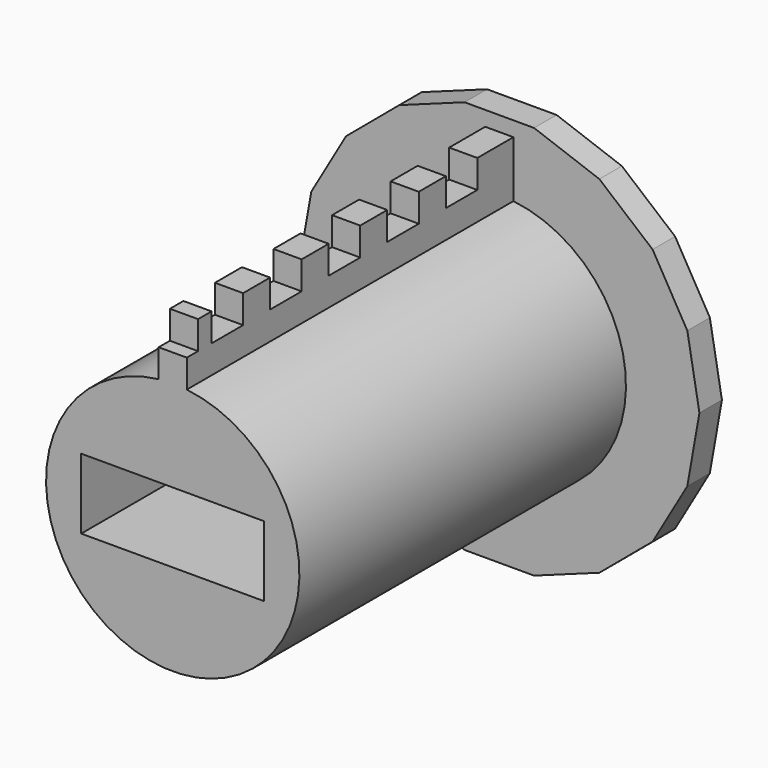
from build123d import *

# Parameters (mm, degrees)
F0_W     = 14
F0_H     = 5
F1_DEPTH = 2
F2_W     = 13
F2_H     = 5
F3_DEPTH = 31
F4_W     = 2
F4_H     = 1.2
F5_DEPTH = 2


with BuildPart() as f1:
    # F0 (on Front) → F1 (new body)
    with BuildSketch(Plane.XZ):
        Polygon((2.468578, 14), (-2.468578, 14), (-7.107986, 12.311393), (-10.890067, 9.137851), (-13.358645, 4.862149), (-14.215973, 0), (-13.358645, -4.862149), (-10.890067, -9.137851), (-7.107986, -12.311393), (-2.468578, -14), (2.468578, -14), (7.107986, -12.311393), (10.890067, -9.137851), (13.358645, -4.862149), (14.215973, 0), (13.358645, 4.862149), (10.890067, 9.137851), (7.107986, 12.311393), align=None)
        with BuildLine():
            ThreePointArc((1, 8.944272), (6.708204, 6), (9, 0))
            ThreePointArc((9, 0), (-6, -6.708204), (-1, 8.944272))
            Line((-1, 8.944272), (-1, 10.944272))
            Line((-1, 10.944272), (1, 10.944272))
            Line((1, 10.944272), (1, 8.944272))
        make_face(mode=Mode.SUBTRACT)
        with BuildLine():
            ThreePointArc((-1, 8.944272), (0, 9), (1, 8.944272))
            Line((1, 8.944272), (1, 10.944272))
            Line((1, 10.944272), (-1, 10.944272))
            Line((-1, 10.944272), (-1, 8.944272))
        make_face()
        with BuildLine():
            ThreePointArc((-1, 8.944272), (-6, -6.708204), (9, 0))
            ThreePointArc((9, 0), (6.708204, 6), (1, 8.944272))
            ThreePointArc((1, 8.944272), (0, 9), (-1, 8.944272))
        make_face()
        Rectangle(F0_W, F0_H, mode=Mode.SUBTRACT)
        Rectangle(F0_W, F0_H)
    extrude(amount=F1_DEPTH)

    # F2 (on Front) → F3 (join)
    with BuildSketch(Plane.XZ):
        with BuildLine():
            Line((-1, 10.944272), (-1, 8.944272))
            ThreePointArc((-1, 8.944272), (0, -9), (1, 8.944272))
            Line((1, 8.944272), (1, 10.944272))
            Line((1, 10.944272), (-1, 10.944272))
        make_face()
        Rectangle(F2_W, F2_H, mode=Mode.SUBTRACT)
    extrude(amount=F3_DEPTH)

    # F4 (on face) → F5 (join)
    with BuildSketch(Plane.XY.offset(10.944272)):
        Polygon((1, -4), (1, -2), (-1, -2), (-1, -4), (-1, -5.2), (1, -5.2), align=None)
        Polygon((1, -9.2), (1, -8), (-1, -8), (-1, -9.2), (-1, -10.4), (1, -10.4), align=None)
        with Locations((0, -13.8)):
            Rectangle(F4_W, F4_H)
        with Locations((0, -15)):
            Rectangle(F4_W, F4_H)
        with Locations((0, -19)):
            Rectangle(F4_W, F4_H)
        with Locations((0, -20.2)):
            Rectangle(F4_W, F4_H)
        with Locations((0, -24.2)):
            Rectangle(F4_W, F4_H)
        with Locations((0, -25.4)):
            Rectangle(F4_W, F4_H)
        with Locations((0, -29.4)):
            Rectangle(F4_W, F4_H)
    extrude(amount=F5_DEPTH)


solid = f1.part
